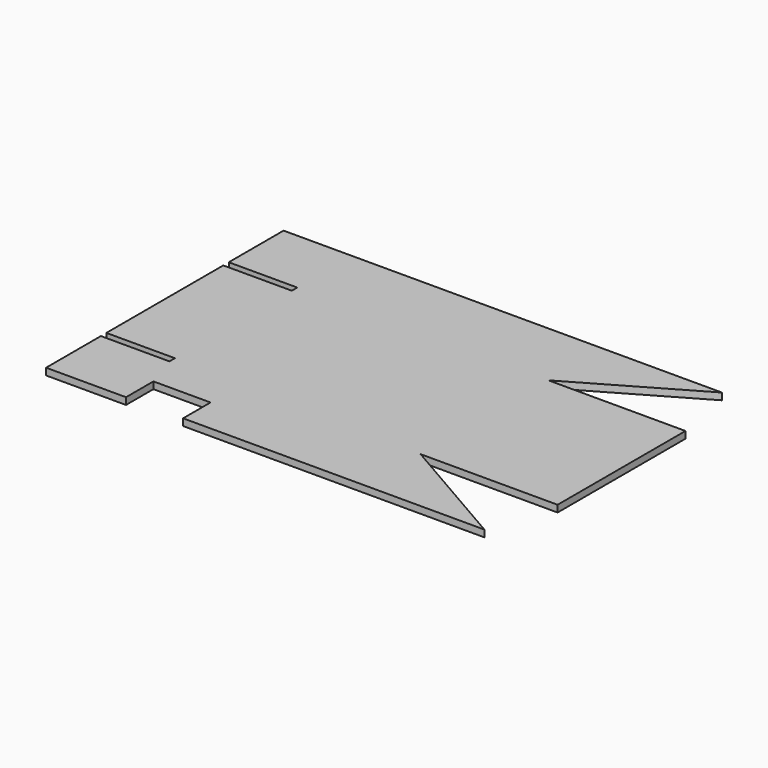
from build123d import *

# Parameters (mm, degrees)
F1_DEPTH = 3


with BuildPart() as f1:
    # F0 (on Top) → F1 (new body)
    with BuildSketch(Plane.XY):
        Polygon((93.913308, 49.283788), (33.913308, 49.283788), (-76.086692, 49.283788), (-76.086692, 46.283788), (-106.086692, 46.283788), (-106.086692, -17.716212), (-76.086692, -17.716212), (-76.086692, -20.716212), (33.913308, -20.716212), (93.913308, -20.716212), align=None)
        Polygon((85.874832, -50.716212), (33.913308, -20.716212), (-76.086692, -20.716212), (-106.086692, -20.716212), (-106.086692, -50.716212), (-71.086692, -50.716212), (-71.086692, -35.716212), (-46.086692, -35.716212), (-46.086692, -50.716212), align=None)
        Polygon((85.874832, 79.283788), (-106.086692, 79.283788), (-106.086692, 49.283788), (-76.086692, 49.283788), (33.913308, 49.283788), align=None)
    extrude(amount=F1_DEPTH)


solid = f1.part
